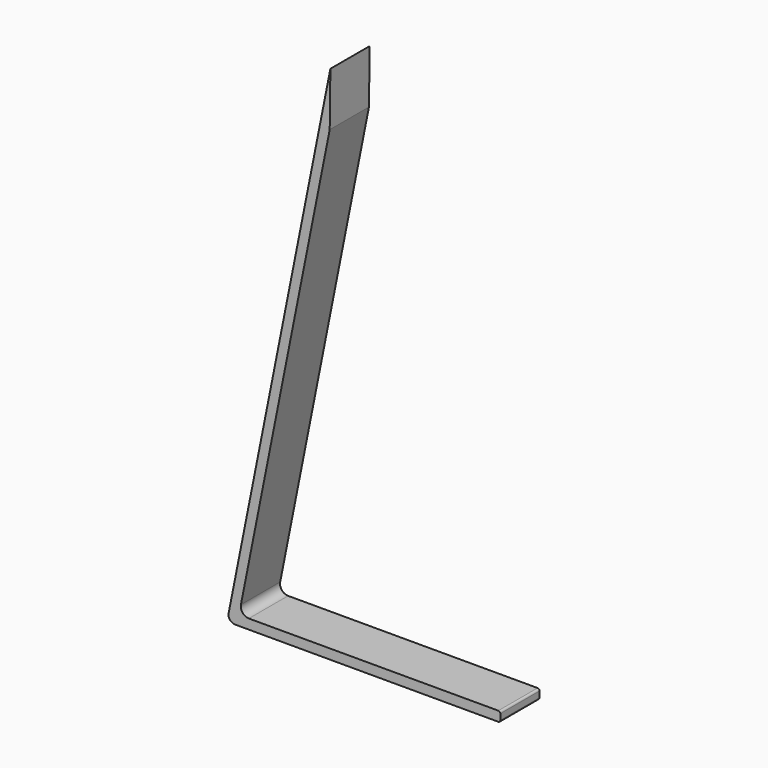
from build123d import *

# Parameters (mm, degrees)
F1_DEPTH = 25
F2_R     = 1


with BuildPart() as f1:
    # F0 (on Front) → F1 (new body)
    with BuildSketch(Plane.XZ):
        with BuildLine():
            Line((-95, 0), (40, 0))
            Line((40, 0), (40, 5))
            Line((40, 5), (-87.769055, 5))
            Line((-87.769055, 5), (-88.073114, 5))
            ThreePointArc((-88.073114, 5), (-91.24566, 6.500211), (-92.099133, 9.904219))
            Line((-92.099133, 9.904219), (-46.880187, 237.59205))
            Line((-46.880187, 237.59205), (-46.534603, 265))
            Line((-46.534603, 265), (-98.234714, 4.678009))
            ThreePointArc((-98.234714, 4.678009), (-97.843727, 1.491003), (-95, 0))
        make_face()
    extrude(amount=F1_DEPTH)

    # F2
    f2_edges = [f1.edges().sort_by_distance(p)[0] for p in [
        (40, -12.5, 5),
        (40, -12.5, 0),
    ]]
    fillet(f2_edges, radius=F2_R)


solid = f1.part
